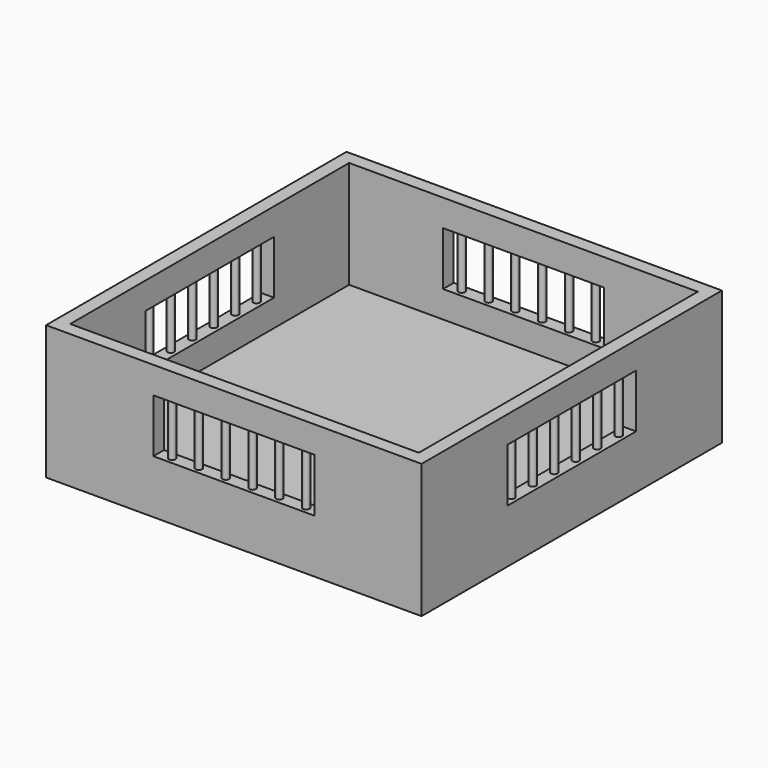
from build123d import *

# Parameters (mm, degrees)
F0_W     = 177.8
F0_H     = 177.8
F1_DEPTH = 12.7
F2_W     = 177.8
F2_H     = 177.8
F2_W_2   = 165.1
F2_H_2   = 165.1
F3_DEPTH = 50.8
F4_W     = 76.2
F4_H     = 25.4
F5_DEPTH = 177.8
F6_W     = 76.2
F6_H     = 25.4
F7_DEPTH = 177.8
F8_R     = 1.5875
F9_DEPTH = 25.4


with BuildPart() as f1:
    # F0 (on Top) → F1 (new body)
    with BuildSketch(Plane.XY):
        with Locations((88.9, 88.9)):
            Rectangle(F0_W, F0_H)
    extrude(amount=F1_DEPTH)

    # F2 (on face) → F3 (join)
    with BuildSketch(Plane.XY.offset(12.7)):
        with Locations((88.9, 88.9)):
            Rectangle(F2_W, F2_H)
        with Locations((88.9, 88.9)):
            Rectangle(F2_W_2, F2_H_2, mode=Mode.SUBTRACT)
    extrude(amount=F3_DEPTH)

    # F4 (on face) → F5 (cut, through all)
    with BuildSketch(Plane.YZ.offset(177.8)):
        with Locations((88.9, 38.1)):
            Rectangle(F4_W, F4_H)
    extrude(amount=-F5_DEPTH, mode=Mode.SUBTRACT)

    # F6 (on face) → F7 (cut, through all)
    with BuildSketch(Plane.XZ):
        with Locations((88.9, 38.1)):
            Rectangle(F6_W, F6_H)
    extrude(amount=-F7_DEPTH, mode=Mode.SUBTRACT)

    # F8 (on face) → F9 (join, through all)
    with BuildSketch(Plane.XY.offset(25.4)):
        with Locations((174.625, 69.85)):
            Circle(F8_R)
        with Locations((174.625, 57.15)):
            Circle(F8_R)
        with Locations((174.625, 82.55)):
            Circle(F8_R)
        with Locations((174.625, 107.95)):
            Circle(F8_R)
        with Locations((174.625, 120.65)):
            Circle(F8_R)
        with Locations((174.625, 95.25)):
            Circle(F8_R)
        with Locations((69.85, 174.625)):
            Circle(F8_R)
        with Locations((57.15, 174.625)):
            Circle(F8_R)
        with Locations((82.55, 174.625)):
            Circle(F8_R)
        with Locations((107.95, 174.625)):
            Circle(F8_R)
        with Locations((120.65, 174.625)):
            Circle(F8_R)
        with Locations((95.25, 174.625)):
            Circle(F8_R)
        with Locations((69.85, 3.175)):
            Circle(F8_R)
        with Locations((57.15, 3.175)):
            Circle(F8_R)
        with Locations((82.55, 3.175)):
            Circle(F8_R)
        with Locations((107.95, 3.175)):
            Circle(F8_R)
        with Locations((120.65, 3.175)):
            Circle(F8_R)
        with Locations((95.25, 3.175)):
            Circle(F8_R)
        with Locations((3.175, 69.85)):
            Circle(F8_R)
        with Locations((3.175, 57.15)):
            Circle(F8_R)
        with Locations((3.175, 82.55)):
            Circle(F8_R)
        with Locations((3.175, 107.95)):
            Circle(F8_R)
        with Locations((3.175, 120.65)):
            Circle(F8_R)
        with Locations((3.175, 95.25)):
            Circle(F8_R)
    extrude(amount=F9_DEPTH)


solid = f1.part
